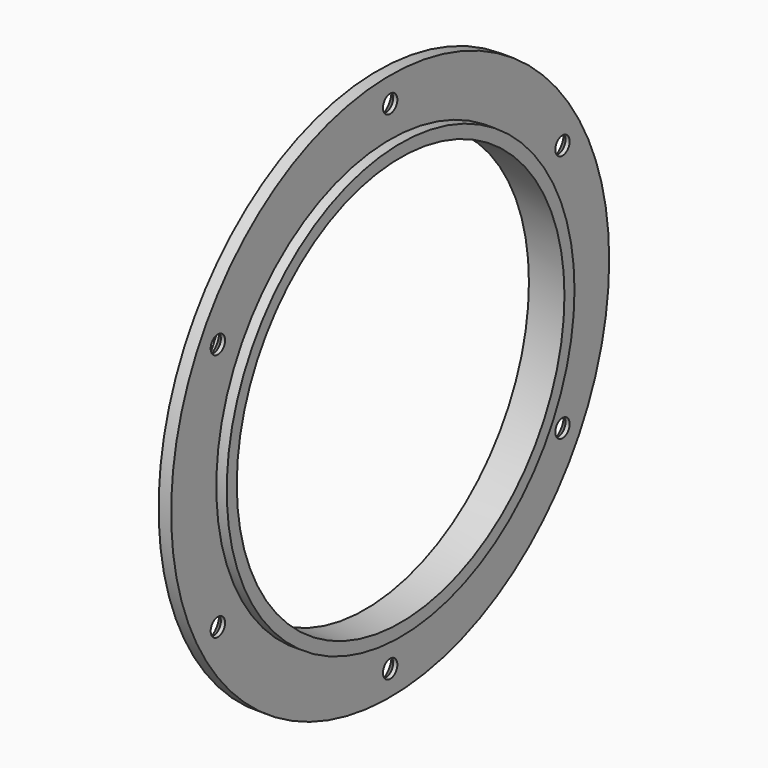
from build123d import *

# Parameters (mm, degrees)
SKETCH001_R        = 2.15
POCKET_DEPTH       = 5
POLARPATTERN_COUNT = 6
CHAMFER_SIZE       = 2


with BuildPart() as part:
    # Sketch → Revolution (revolve)
    with BuildSketch(Plane.XY):
        Polygon((-8.5, 52), (-5.5, 52), (-5.5, 65.5), (-2.5, 65.5), (-2.5, 52), (0, 52), (0, 49), (-8.5, 49), align=None)
    revolve(axis=Axis((0, 0, 0), (1, 0, 0)))

    # Sketch001 → Pocket (cut)
    with BuildSketch(Plane(origin=(-5.5, 0, 0), x_dir=(0, -1, 0), z_dir=(-1, 0, 0))):
        with Locations((0, 59.5)):
            Circle(SKETCH001_R)
    pocket = extrude(amount=-POCKET_DEPTH, mode=Mode.SUBTRACT)

    # PolarPattern: Pocket ×6 about axis
    polarpattern_axis = Axis((-5.5, 0, 0), (-1, 0, 0))
    for i in range(1, POLARPATTERN_COUNT):
        add(pocket.rotate(polarpattern_axis, i * 360 / POLARPATTERN_COUNT), mode=Mode.SUBTRACT)

    # Chamfer
    chamfer_edges = [part.edges().sort_by_distance(p)[0] for p in [
        (-5.5, 2.15, 59.5),
        (-5.5, 52.603512, 27.888045),
        (-5.5, 50.453512, -31.611955),
        (-5.5, -2.15, -59.5),
        (-5.5, -52.603512, -27.888045),
        (-5.5, -50.453512, 31.611955),
    ]]
    chamfer(chamfer_edges, length=CHAMFER_SIZE)


solid = part.part
